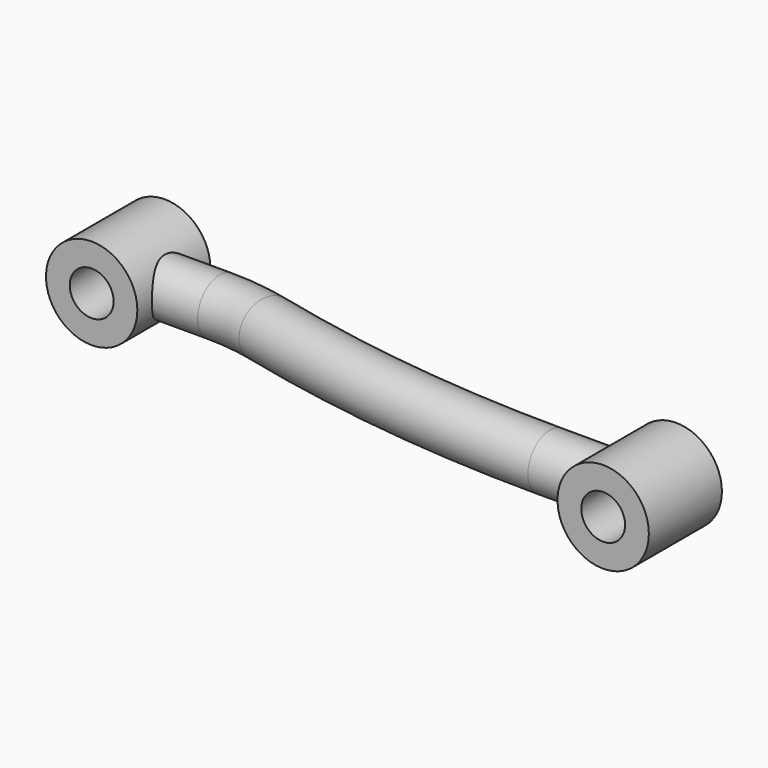
from build123d import *

# Parameters (mm, degrees)
F0_R     = 12.5
F0_R_2   = 6
F1_DEPTH = 25
F2_R     = 12.5
F2_R_2   = 6
F3_DEPTH = 12.5
F5_R     = 7.5
F7_DEPTH = 25.0010001
F8_DEPTH = 25


with BuildPart() as f1:
    # F0 (on Front) → F1 (new body)
    with BuildSketch(Plane.XZ):
        Circle(F0_R)
        Circle(F0_R_2, mode=Mode.SUBTRACT)
    extrude(amount=-F1_DEPTH)



with BuildPart() as f3:
    # F2 (on Front) → F3 (new body, symmetric)
    with BuildSketch(Plane.XZ):
        with Locations((150, 0)):
            Circle(F2_R)
        with Locations((150, 0)):
            Circle(F2_R_2, mode=Mode.SUBTRACT)
    extrude(amount=F3_DEPTH, both=True)


with BuildPart() as f1_1:
    add(f1.part)

    add(f3.part)  # F6 merges F3
    # F6: sweep along a path in F4
    with BuildLine(Plane.XY) as f6_path:
        Line((0, 12), (25, 12))
        ThreePointArc((25, 12), (32.1487132371, 11.5726103092), (39.1955835962, 10.2965299685))
        ThreePointArc((39.1955835962, 10.2965299685), (81.789999989, 2.5833332421), (125, 0))
        Line((125, 0), (150, 0))
    # F5 (on Right) → F6 (sweep)
    with BuildSketch(Plane.YZ):
        with Locations((12.4965049244, 0)):
            Circle(F5_R)
    sweep(path=f6_path.line)

    # F0 (on Front) → F7 (cut, through all)
    with BuildSketch(Plane.XZ):
        Circle(F0_R_2)
    extrude(amount=-F7_DEPTH, mode=Mode.SUBTRACT)

    # F2 (on Front) → F8 (cut, symmetric)
    with BuildSketch(Plane.XZ):
        with Locations((150, 0)):
            Circle(F2_R_2)
    extrude(amount=F8_DEPTH, both=True, mode=Mode.SUBTRACT)


solid = f1_1.part
